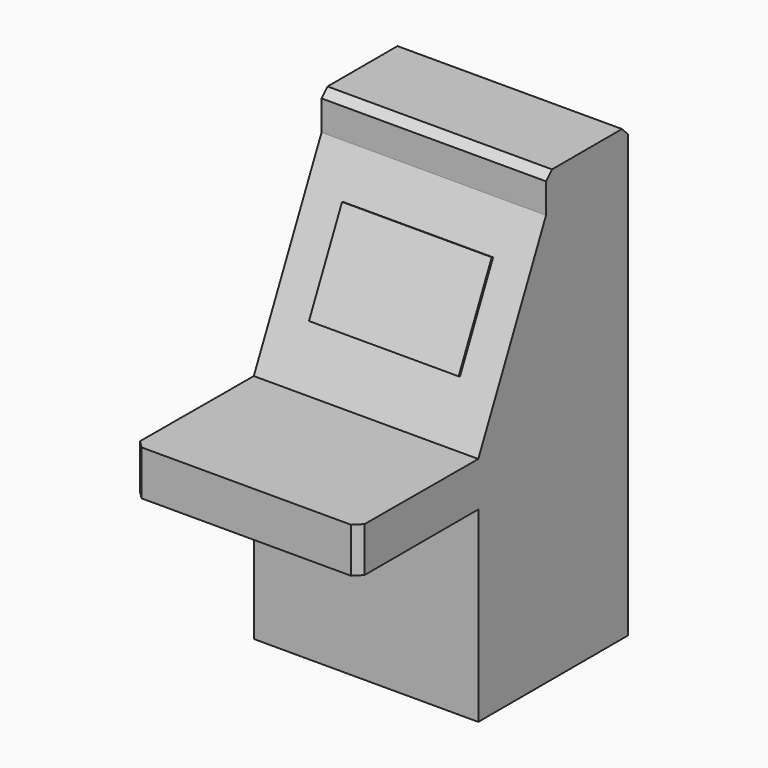
from build123d import *

# Parameters (mm, degrees)
F1_DEPTH = 600
F2_W     = 400
F2_H     = 260
F3_DEPTH = 5
F4_SIZE  = 20


with BuildPart() as f1:
    # F0 (on Right) → F1 (new body)
    with BuildSketch(Plane.YZ):
        Polygon((549.161103, 657.850861), (275.498464, 657.850861), (275.498464, 557.850861), (49.158994, 76.551717), (-350.838897, 77.850861), (-350.838897, -42.149139), (49.161103, -42.149139), (49.161103, -542.149139), (549.161103, -542.149139), align=None)
    extrude(amount=F1_DEPTH)

    # F2 (on face) → F3 (join)
    with BuildSketch(Plane(origin=(0, 10.776047, -5.067628), x_dir=(1, 0, 0), z_dir=(0, -0.90493, 0.42556))):
        with Locations((300, 370.194057)):
            Rectangle(F2_W, F2_H)
    extrude(amount=F3_DEPTH)

    # F4
    f4_edges = [f1.edges().sort_by_distance(p)[0] for p in [
        (300, 275.498464, 657.850861),
        (300, 549.161103, 657.850861),
        (600, -350.838897, 17.850861),
        (0, -350.838897, 17.850861),
    ]]
    chamfer(f4_edges, length=F4_SIZE)


solid = f1.part
